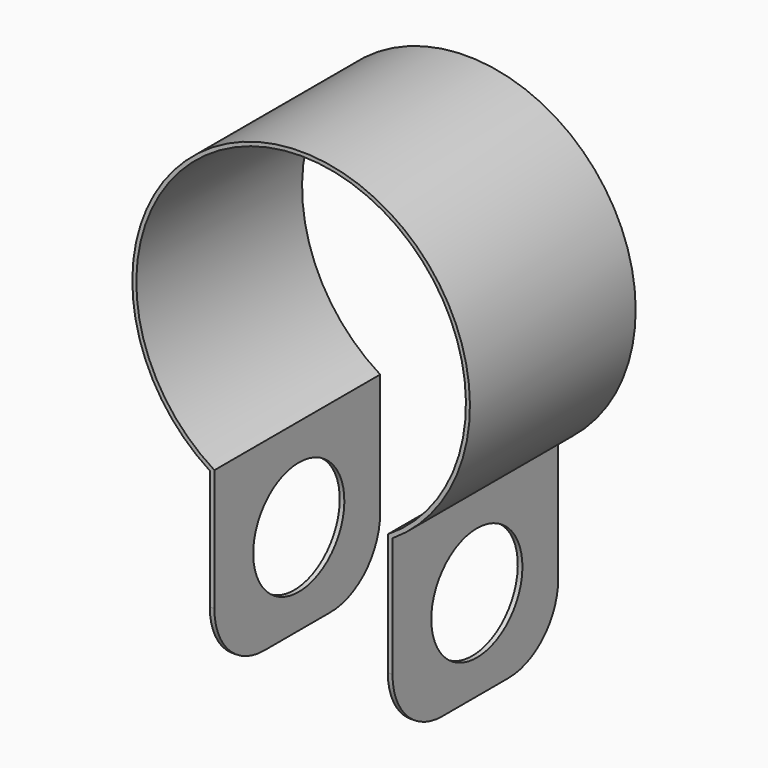
from build123d import *

# Parameters (mm, degrees)
PAD_DEPTH       = 10
POCKET_DEPTH    = 10.001
SKETCH002_R     = 2.749127
POCKET001_DEPTH = 12.55872
FILLET_R        = 3


with BuildPart() as part:
    # Sketch → Pad (new body)
    with BuildSketch(Plane.XZ):
        with BuildLine():
            ThreePointArc((4.409319, 13.530378), (0, 28.531103), (-4.409319, 13.530378))
            Line((-4.409319, 13.530378), (-4.409319, 4.742104))
            Line((-4.409319, 4.742104), (4.409319, 4.742104))
            Line((4.409319, 4.742104), (4.409319, 13.530378))
        make_face()
    extrude(amount=PAD_DEPTH)

    # Sketch001 → Pocket (cut, through all)
    with BuildSketch(Plane.XZ):
        with BuildLine():
            ThreePointArc((4.186002, 13.626635), (0, 28.346632), (-4.186002, 13.626635))
            Line((-4.186002, 13.626635), (-4.186002, 4.191096))
            Line((-4.186002, 4.191096), (4.186002, 4.191096))
            Line((4.186002, 4.191096), (4.186002, 13.626635))
        make_face()
    extrude(amount=POCKET_DEPTH, mode=Mode.SUBTRACT)

    # Sketch002 (on Face2 of Pocket) → Pocket001 (cut, through all)
    with BuildSketch(Plane(origin=(4.409319, 0, 0), x_dir=(0, 0, 1), z_dir=(1, 0, 0))):
        with Locations((9.13458, 4.909179)):
            Circle(SKETCH002_R)
    extrude(amount=-POCKET001_DEPTH, mode=Mode.SUBTRACT)

    # Fillet
    fillet_edges = [part.edges().sort_by_distance(p)[0] for p in [
        (4.297661, -10, 4.742104),
        (-4.297661, -10, 4.742104),
        (-4.297661, 0, 4.742104),
        (4.297661, 0, 4.742104),
    ]]
    fillet(fillet_edges, radius=FILLET_R)


solid = part.part
